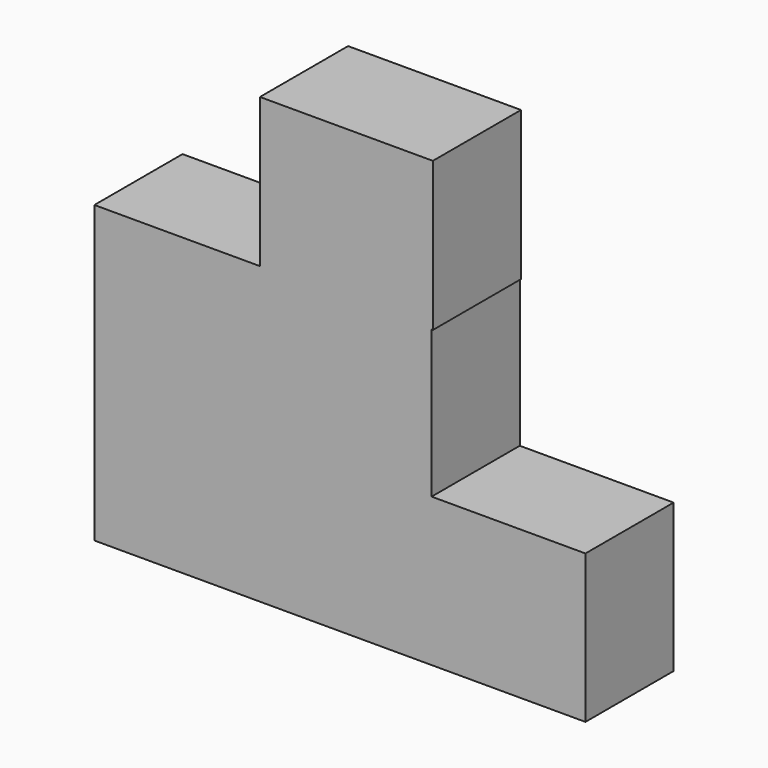
from build123d import *

# Parameters (mm, degrees)
F0_W     = 38.1607972085
F0_H     = 33.9049473405
F0_W_2   = 39.5794175565
F0_H_2   = 34.1886691749
F0_W_3   = 35.4654230177
F1_DEPTH = 25.4


with BuildPart() as f1:
    # F0 (on Front) → F1 (new body)
    with BuildSketch(Plane.XZ):
        with Locations((-19.0803986043, 16.9524736702)):
            Rectangle(F0_W, F0_H)
        Polygon((0, 68.2354792953), (0, 33.9049473405), (39.5794175565, 33.9049473405), (39.8631393909, 33.9049473405), (39.8631393909, 68.2354792953), align=None)
        with Locations((19.7897087783, 16.9524736702)):
            Rectangle(F0_W_2, F0_H)
        with Locations((-19.0803986043, -17.0943345875)):
            Rectangle(F0_W, F0_H_2)
        with Locations((19.7897087783, -17.0943345875)):
            Rectangle(F0_W_2, F0_H_2)
        with Locations((57.3121290654, -17.0943345875)):
            Rectangle(F0_W_3, F0_H_2)
    extrude(amount=F1_DEPTH)


solid = f1.part
